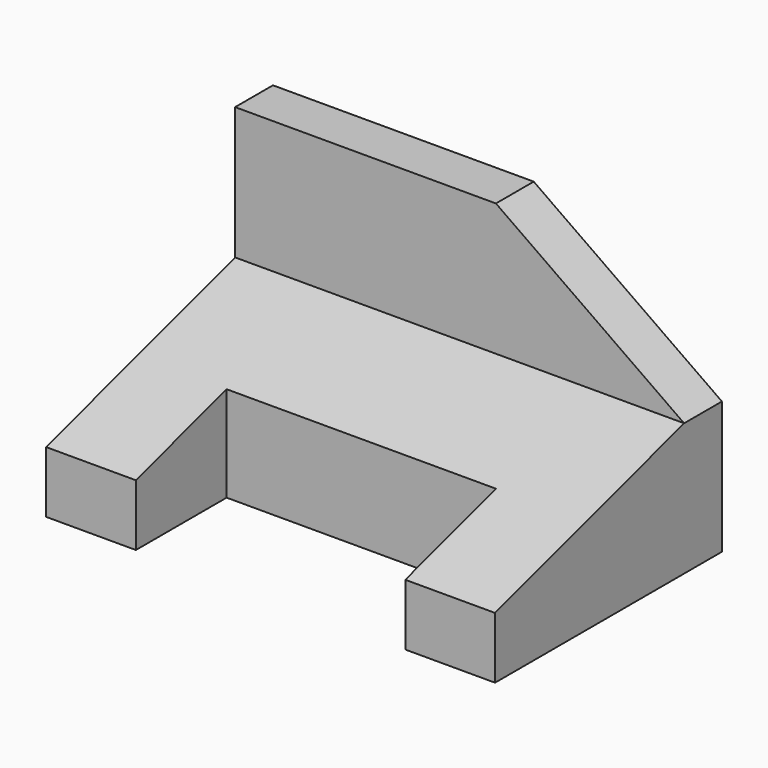
from build123d import *

# Parameters (mm, degrees)
F1_DEPTH = 95
F3_DEPTH = 10.001
F4_W     = 57
F4_H     = 24
F5_DEPTH = 25


with BuildPart() as f1:
    # F0 (on Right) → F1 (new body)
    with BuildSketch(Plane.YZ):
        Polygon((-60, 0), (0, 0), (0, 56), (-10, 56), (-10, 28), (-60, 13), align=None)
    extrude(amount=F1_DEPTH)

    # F2 (on face) → F3 (cut, through all)
    with BuildSketch(Plane.XZ.offset(10)):
        Polygon((55.181451, 56), (95, 28), (95, 56), align=None)
    extrude(amount=-F3_DEPTH, mode=Mode.SUBTRACT)

    # F4 (on face) → F5 (cut)
    with BuildSketch(Plane(origin=(0, 0, 0), x_dir=(1, 0, 0), z_dir=(0, 0, -1))):
        with Locations((47.5, 48)):
            Rectangle(F4_W, F4_H)
    extrude(amount=-F5_DEPTH, mode=Mode.SUBTRACT)


solid = f1.part
